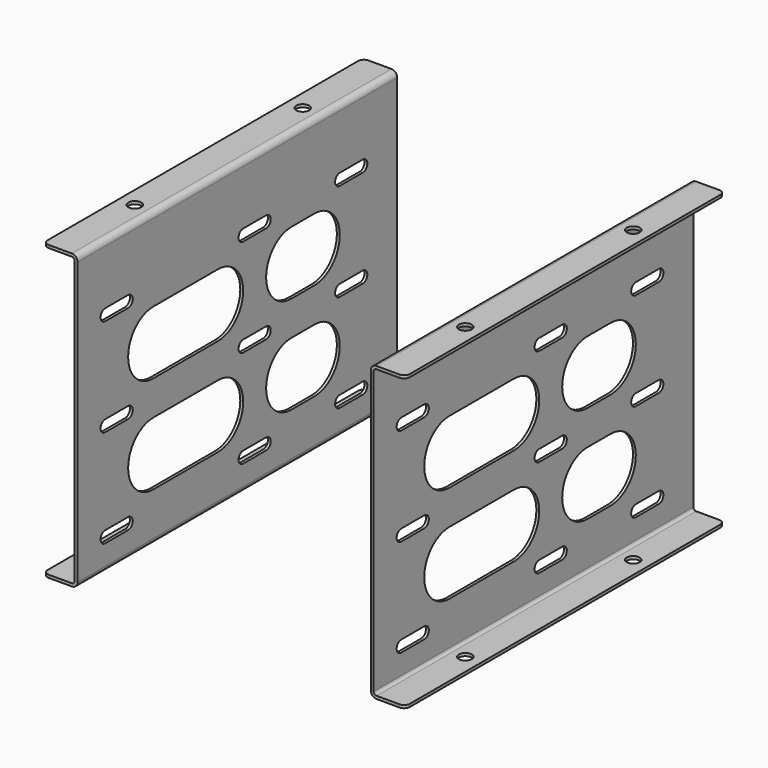
from build123d import *

# Parameters (mm, degrees)
F1_DEPTH  = 139
F3_D      = 4.5
F5_DEPTH  = 25
F6_R      = 2
F7_R      = 2
F8_R      = 2
F9_R      = 2
F11_DEPTH = 25


with BuildPart() as f1:
    # F0 (on Front) → F1 (new body)
    with BuildSketch(Plane.XZ):
        with BuildLine():
            Line((0, 1), (0, 0))
            Line((0, 0), (10, 0))
            ThreePointArc((10, 0), (11.414214, 0.585786), (12, 2))
            Line((12, 2), (12, 100))
            ThreePointArc((12, 100), (11.414214, 101.414214), (10, 102))
            Line((10, 102), (0, 102))
            Line((0, 102), (0, 101))
            Line((0, 101), (10, 101))
            ThreePointArc((10, 101), (10.707107, 100.707107), (11, 100))
            Line((11, 100), (11, 2))
            ThreePointArc((11, 2), (10.707107, 1.292893), (10, 1))
            Line((10, 1), (0, 1))
        make_face()
    extrude(amount=F1_DEPTH)

    # F3 (through all)
    with Locations(Plane.XY.offset(102)):
        with Locations((5.5, -106), (5.5, -33)):
            Hole(F3_D / 2)

    # F4 (on face) → F5 (cut)
    with BuildSketch(Plane(origin=(11, 0, 0), x_dir=(0, -1, 0), z_dir=(-1, 0, 0))):
        with BuildLine():
            Line((25, 13), (15, 13))
            ThreePointArc((15, 13), (13, 11), (15, 9))
            Line((15, 9), (25, 9))
            ThreePointArc((25, 9), (27, 11), (25, 13))
        make_face()
        with BuildLine():
            Line((25, 47), (15, 47))
            ThreePointArc((15, 47), (13, 45), (15, 43))
            Line((15, 43), (25, 43))
            ThreePointArc((25, 43), (27, 45), (25, 47))
        make_face()
        with BuildLine():
            Line((25, 81), (15, 81))
            ThreePointArc((15, 81), (13, 79), (15, 77))
            Line((15, 77), (25, 77))
            ThreePointArc((25, 77), (27, 79), (25, 81))
        make_face()
        with BuildLine():
            Line((67, 13), (57, 13))
            ThreePointArc((57, 13), (55, 11), (57, 9))
            Line((57, 9), (67, 9))
            ThreePointArc((67, 9), (69, 11), (67, 13))
        make_face()
        with BuildLine():
            Line((67, 47), (57, 47))
            ThreePointArc((57, 47), (55, 45), (57, 43))
            Line((57, 43), (67, 43))
            ThreePointArc((67, 43), (69, 45), (67, 47))
        make_face()
        with BuildLine():
            Line((67, 81), (57, 81))
            ThreePointArc((57, 81), (55, 79), (57, 77))
            Line((57, 77), (67, 77))
            ThreePointArc((67, 77), (69, 79), (67, 81))
        make_face()
        with BuildLine():
            Line((127, 13), (117, 13))
            ThreePointArc((117, 13), (115, 11), (117, 9))
            Line((117, 9), (127, 9))
            ThreePointArc((127, 9), (129, 11), (127, 13))
        make_face()
        with BuildLine():
            Line((127, 47), (117, 47))
            ThreePointArc((117, 47), (115, 45), (117, 43))
            Line((117, 43), (127, 43))
            ThreePointArc((127, 43), (129, 45), (127, 47))
        make_face()
        with BuildLine():
            Line((127, 81), (117, 81))
            ThreePointArc((117, 81), (115, 79), (117, 77))
            Line((117, 77), (127, 77))
            ThreePointArc((127, 77), (129, 79), (127, 81))
        make_face()
    extrude(amount=-F5_DEPTH, mode=Mode.SUBTRACT)

    # F6
    f6_edges = [f1.edges().sort_by_distance(p)[0] for p in [
        (0, -139, 101.5),
    ]]
    fillet(f6_edges, radius=F6_R)

    # F7
    f7_edges = [f1.edges().sort_by_distance(p)[0] for p in [
        (0, -139, 0.5),
    ]]
    fillet(f7_edges, radius=F7_R)

    # F8
    f8_edges = [f1.edges().sort_by_distance(p)[0] for p in [
        (0, 0, 0.5),
    ]]
    fillet(f8_edges, radius=F8_R)

    # F9
    f9_edges = [f1.edges().sort_by_distance(p)[0] for p in [
        (0, 0, 101.5),
    ]]
    fillet(f9_edges, radius=F9_R)

    # F10 (on face) → F11 (cut)
    with BuildSketch(Plane(origin=(11, 0, 0), x_dir=(0, -1, 0), z_dir=(-1, 0, 0))):
        with BuildLine():
            Line((46, 39), (36, 39))
            ThreePointArc((36, 39), (25, 28), (36, 17))
            Line((36, 17), (46, 17))
            ThreePointArc((46, 17), (57, 28), (46, 39))
        make_face()
        with BuildLine():
            Line((46, 73), (36, 73))
            ThreePointArc((36, 73), (25, 62), (36, 51))
            Line((36, 51), (46, 51))
            ThreePointArc((46, 51), (57, 62), (46, 73))
        make_face()
        with BuildLine():
            Line((106, 39), (78, 39))
            ThreePointArc((78, 39), (67, 28), (78, 17))
            Line((78, 17), (106, 17))
            ThreePointArc((106, 17), (117, 28), (106, 39))
        make_face()
        with BuildLine():
            ThreePointArc((78, 73), (67, 62), (78, 51))
            Line((78, 51), (106, 51))
            ThreePointArc((106, 51), (117, 62), (106, 73))
            Line((106, 73), (78, 73))
        make_face()
    extrude(amount=-F11_DEPTH, mode=Mode.SUBTRACT)


with BuildPart() as f13_1:
    # F13: instance of F1
    add(f1.part.mirror(Plane.YZ.offset(63)))


solid = Compound([f1.part, f13_1.part])
